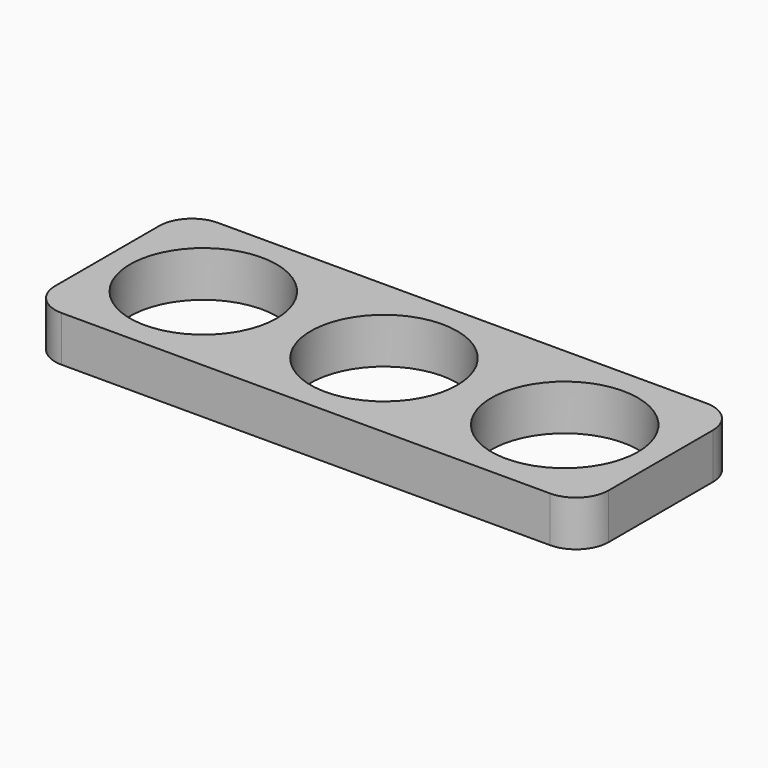
from build123d import *

# Parameters (mm, degrees)
F0_R     = 11.25
F1_DEPTH = 7


with BuildPart() as f1:
    # F0 (on Top) → F1 (new body)
    with BuildSketch(Plane.XY):
        with BuildLine():
            ThreePointArc((42.5, 10), (41.035534, 13.535534), (37.5, 15))
            Line((37.5, 15), (-37.5, 15))
            ThreePointArc((-37.5, 15), (-41.035534, 13.535534), (-42.5, 10))
            Line((-42.5, 10), (-42.5, -10))
            ThreePointArc((-42.5, -10), (-41.035534, -13.535534), (-37.5, -15))
            Line((-37.5, -15), (37.5, -15))
            ThreePointArc((37.5, -15), (41.035534, -13.535534), (42.5, -10))
            Line((42.5, -10), (42.5, 10))
        make_face()
        with Locations((-27.75, 0)):
            Circle(F0_R, mode=Mode.SUBTRACT)
        Circle(F0_R, mode=Mode.SUBTRACT)
        with Locations((27.75, 0)):
            Circle(F0_R, mode=Mode.SUBTRACT)
    extrude(amount=F1_DEPTH)


solid = f1.part
